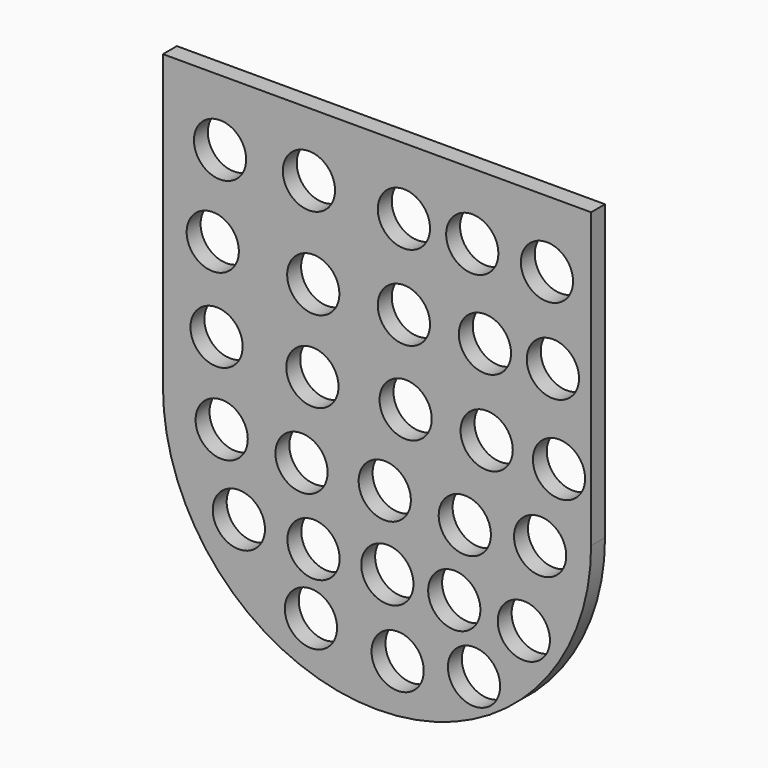
from build123d import *

# Parameters (mm, degrees)
F0_R     = 7.5
F1_DEPTH = 5


with BuildPart() as f1:
    # F0 (on Front) → F1 (new body)
    with BuildSketch(Plane.XZ):
        with BuildLine():
            Line((-86.710327, 94.337149), (-86.710327, 10.077905))
            Line((-86.710327, 10.077905), (-75.277857, 10.077905))
            ThreePointArc((-75.277857, 10.077905), (-69.84026, 12.412391), (-64.402663, 10.077905))
            Line((-64.402663, 10.077905), (-51.199337, 10.077905))
            ThreePointArc((-51.199337, 10.077905), (-46.909187, 11.426107), (-42.619037, 10.077905))
            Line((-42.619037, 10.077905), (-28.184067, 10.077905))
            ThreePointArc((-28.184067, 10.077905), (-22.991827, 12.165822), (-17.799587, 10.077905))
            Line((-17.799587, 10.077905), (-3.477754, 10.077905))
            ThreePointArc((-3.477754, 10.077905), (0, 10.932965), (3.477754, 10.077905))
            Line((3.477754, 10.077905), (15.975848, 10.077905))
            ThreePointArc((15.975848, 10.077905), (21.637471, 12.65896), (27.299095, 10.077905))
            Line((27.299095, 10.077905), (36.289673, 10.077905))
            Line((36.289673, 10.077905), (36.289673, 94.337149))
            Line((36.289673, 94.337149), (-86.710327, 94.337149))
        make_face()
        with Locations((-71.317263, 27.843174)):
            Circle(F0_R, mode=Mode.SUBTRACT)
        with Locations((-72.399746, 51.555946)):
            Circle(F0_R, mode=Mode.SUBTRACT)
        with Locations((-43.777015, 26.649399)):
            Circle(F0_R, mode=Mode.SUBTRACT)
        with Locations((-43.526709, 50.178468)):
            Circle(F0_R, mode=Mode.SUBTRACT)
        with Locations((-70.309795, 75.459704)):
            Circle(F0_R, mode=Mode.SUBTRACT)
        with Locations((-44.778254, 75.960323)):
            Circle(F0_R, mode=Mode.SUBTRACT)
        with Locations((-16.993923, 27.150016)):
            Circle(F0_R, mode=Mode.SUBTRACT)
        with Locations((-17.494541, 50.929397)):
            Circle(F0_R, mode=Mode.SUBTRACT)
        with Locations((6.284834, 26.899708)):
            Circle(F0_R, mode=Mode.SUBTRACT)
        with Locations((27.060509, 26.399089)):
            Circle(F0_R, mode=Mode.SUBTRACT)
        with Locations((5.784216, 51.179707)):
            Circle(F0_R, mode=Mode.SUBTRACT)
        with Locations((25.308343, 51.179707)):
            Circle(F0_R, mode=Mode.SUBTRACT)
        with Locations((-17.494541, 75.209394)):
            Circle(F0_R, mode=Mode.SUBTRACT)
        with Locations((2.142422, 75.247116)):
            Circle(F0_R, mode=Mode.SUBTRACT)
        with Locations((23.602774, 75.152084)):
            Circle(F0_R, mode=Mode.SUBTRACT)
        with BuildLine():
            Line((-75.277857, 10.077905), (-86.710327, 10.077905))
            ThreePointArc((-86.710327, 10.077905), (-25.210327, -51.422095), (36.289673, 10.077905))
            Line((36.289673, 10.077905), (27.299095, 10.077905))
            ThreePointArc((27.299095, 10.077905), (28.66286, 7.784586), (29.137471, 5.15896))
            ThreePointArc((29.137471, 5.15896), (19.011845, -1.866429), (15.975848, 10.077905))
            Line((15.975848, 10.077905), (3.477754, 10.077905))
            ThreePointArc((3.477754, 10.077905), (6.416119, 7.316703), (7.5, 3.432965))
            ThreePointArc((7.5, 3.432965), (-3.883738, -2.983154), (-3.477754, 10.077905))
            Line((-3.477754, 10.077905), (-17.799587, 10.077905))
            ThreePointArc((-17.799587, 10.077905), (-16.092849, 7.607607), (-15.491827, 4.665822))
            ThreePointArc((-15.491827, 4.665822), (-25.933612, -2.233156), (-28.184067, 10.077905))
            Line((-28.184067, 10.077905), (-42.619037, 10.077905))
            ThreePointArc((-42.619037, 10.077905), (-40.259897, 7.395536), (-39.409187, 3.926107))
            ThreePointArc((-39.409187, 3.926107), (-50.378616, -2.723183), (-51.199337, 10.077905))
            Line((-51.199337, 10.077905), (-64.402663, 10.077905))
            ThreePointArc((-64.402663, 10.077905), (-62.874918, 7.6934), (-62.34026, 4.912391))
            ThreePointArc((-62.34026, 4.912391), (-72.621269, -2.052951), (-75.277857, 10.077905))
        make_face()
        with Locations((-64.908847, -16.292689)):
            Circle(F0_R, mode=Mode.SUBTRACT)
        with Locations((-44.196907, -34.538925)):
            Circle(F0_R, mode=Mode.SUBTRACT)
        with Locations((-43.457195, -16.785832)):
            Circle(F0_R, mode=Mode.SUBTRACT)
        with Locations((-19.293265, -37.251204)):
            Circle(F0_R, mode=Mode.SUBTRACT)
        with Locations((2.651528, -34.045782)):
            Circle(F0_R, mode=Mode.SUBTRACT)
        with Locations((-22.252114, -16.292689)):
            Circle(F0_R, mode=Mode.SUBTRACT)
        with Locations((-3.019601, -16.539263)):
            Circle(F0_R, mode=Mode.SUBTRACT)
        with Locations((16.95263, -17.772116)):
            Circle(F0_R, mode=Mode.SUBTRACT)
    extrude(amount=F1_DEPTH)


solid = f1.part
